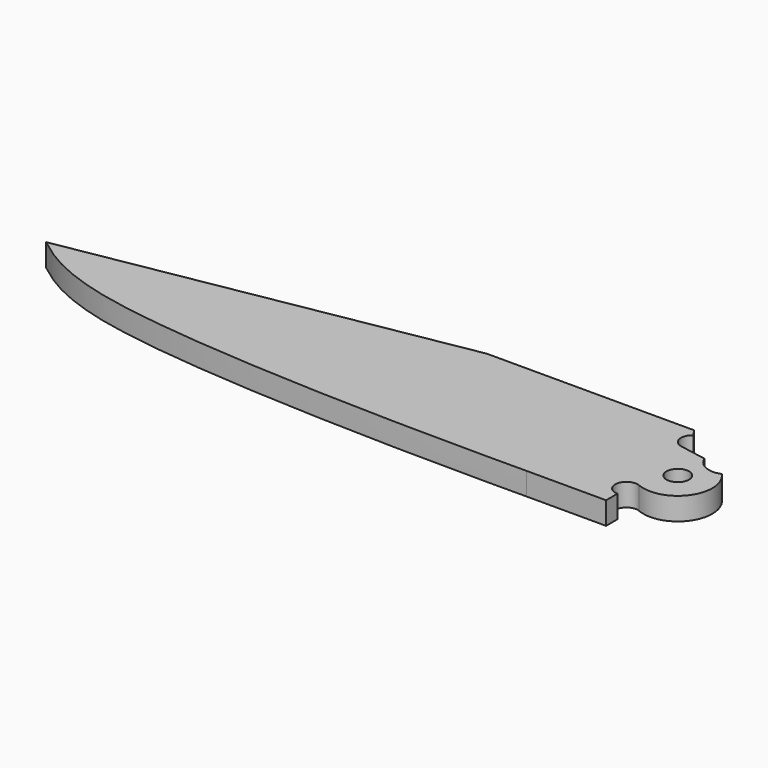
from build123d import *

# Parameters (mm, degrees)
F1_R     = 1.5875
F2_DEPTH = 3.175


with BuildPart() as f2:
    # F1 (on Top) → F2 (new body)
    with BuildSketch(Plane.XY):
        with BuildLine():
            ThreePointArc((-4.0262265136, 5.6513251328), (-5.2977559244, 6.8795791134), (-4.6446774192, 8.5224069649))
            Line((-4.6446774192, 8.5224069649), (-5.3333519733, 9.525))
            Line((-5.3333519733, 9.525), (-34.4962663949, 9.525))
            Line((-34.4962663949, 9.525), (-88.9, 0))
            add(Edge.make_bspline(
                [(-88.9, 0), (-87.2379108001, -1.1763368423), (-77.6465036689, -10.294371312), (-16.7160528872, -9.525), (-13.6749316007, -9.525)],
                knots=[0, 0, 0, 0, 0.3288466474, 1, 1, 1, 1], degree=3))
            Line((-13.6749316007, -9.525), (-2.4758519733, -9.525))
            Line((-2.4758519733, -9.525), (-2.4758519733, -7.5313699697))
            ThreePointArc((-2.4758519733, -7.5313699697), (-4.0325407656, -5.6326204651), (-1.8654348201, -4.4784187937))
            ThreePointArc((-1.8654348201, -4.4784187937), (3.9795795285, -2.7747123701), (3.5571823428, 3.2988688577))
            ThreePointArc((3.5571823428, 3.2988688577), (1.31903069, 3.3310035803), (-0.2092779199, 4.9664326537))
            Line((-0.2092779199, 4.9664326537), (-4.0262265136, 5.6513251328))
        make_face()
        Circle(F1_R, mode=Mode.SUBTRACT)
    extrude(amount=F2_DEPTH)


solid = f2.part
